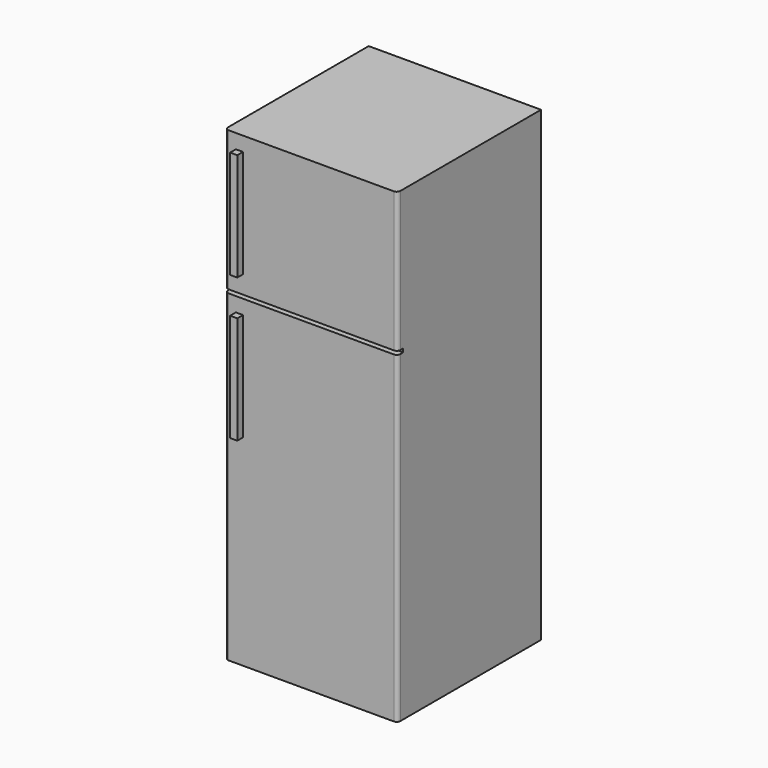
from build123d import *

# Parameters (mm, degrees)
F0_W     = 609.6
F0_H     = 1651
F1_DEPTH = 609.6
F2_W     = 609.6
F2_H     = 1143
F2_H_2   = 495.3
F3_DEPTH = 25.4
F4_W     = 25.4
F4_H     = 381
F5_DEPTH = 25.4
F6_R     = 12.7


with BuildPart() as f1:
    # F0 (on Front) → F1 (new body)
    with BuildSketch(Plane.XZ):
        with Locations((-1.901709, 324.781201)):
            Rectangle(F0_W, F0_H)
    extrude(amount=F1_DEPTH)

    # F2 (on face) → F3 (join)
    with BuildSketch(Plane.XZ.offset(609.6)):
        with Locations((-1.901709, 70.781201)):
            Rectangle(F2_W, F2_H)
        with Locations((-1.901709, 902.631201)):
            Rectangle(F2_W, F2_H_2)
    extrude(amount=F3_DEPTH)

    # F4 (on face) → F5 (join)
    with BuildSketch(Plane.XZ.offset(635)):
        with Locations((-255.901709, 908.981201)):
            Rectangle(F4_W, F4_H)
        with Locations((-255.901709, 400.981201)):
            Rectangle(F4_W, F4_H)
    extrude(amount=F5_DEPTH)

    # F6
    f6_edges = [f1.edges().sort_by_distance(p)[0] for p in [
        (302.898291, -635, 902.631201),
        (302.898291, -635, 70.781201),
        (-306.701709, -635, 902.631201),
        (-306.701709, -635, 70.781201),
    ]]
    fillet(f6_edges, radius=F6_R)


solid = f1.part
